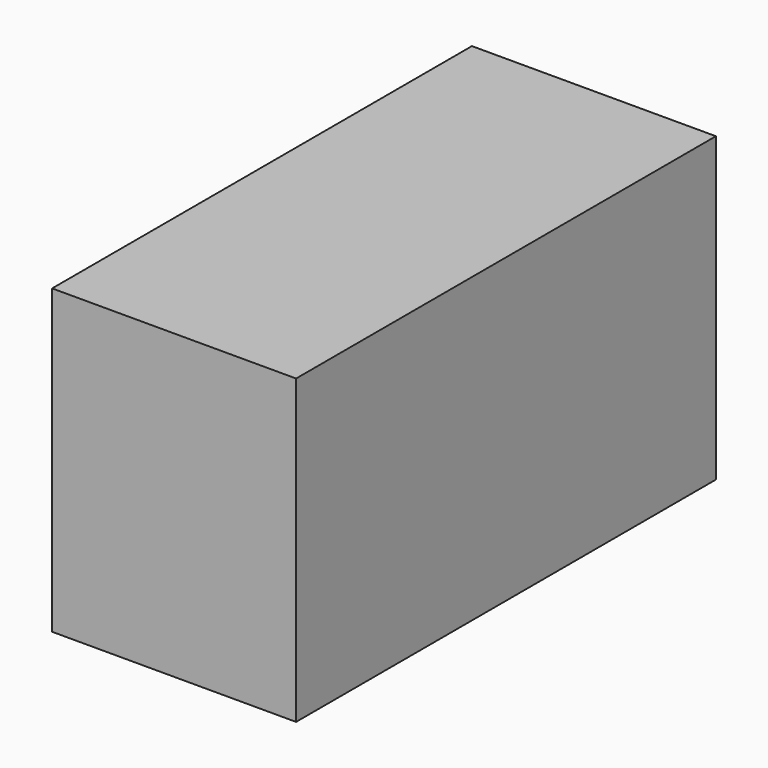
from build123d import *

# Parameters (mm, degrees)
F0_W     = 35.429027
F0_H     = 43.902747
F2_DEPTH = 76.2
F3_R     = 8.582632
F4_DEPTH = 76.2


with BuildPart() as f2:
    # F0 (on Front) → F2 (new body)
    with BuildSketch(Plane.XZ):
        with Locations((17.714513, 21.951373)):
            Rectangle(F0_W, F0_H)
    extrude(amount=F2_DEPTH)

    # F3 (on face) → F4 (join, through all)
    with BuildSketch(Plane.XZ):
        with Locations((18.754071, 21.276563)):
            Circle(F3_R)
    extrude(amount=F4_DEPTH)


solid = f2.part
